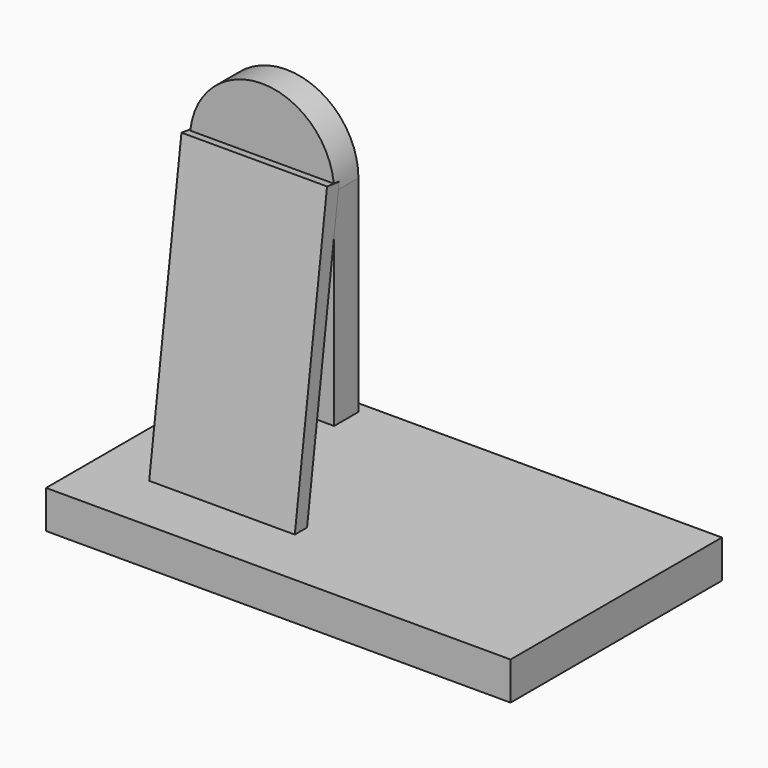
from build123d import *

# Parameters (mm, degrees)
F0_W      = 77.6358172297
F0_H      = 44.1598240286
F1_DEPTH  = 6.35
F2_W      = 24.0979678929
F2_H      = 34.4256665558
F3_DEPTH  = 5.08
F13_W     = 24.3353862315
F13_H     = 49.1384794004
F14_DEPTH = 2.54


with BuildPart() as f1:
    # F0 (on Top) → F1 (new body)
    with BuildSketch(Plane.XY):
        with Locations((5.2232034504, -1.1870926246)):
            Rectangle(F0_W, F0_H)
    extrude(amount=F1_DEPTH)


with BuildPart() as f3:
    # F2 (on Front) → F3 (new body)
    with BuildSketch(Plane.XZ):
        with BuildLine():
            ThreePointArc((0, 53.4191392362), (-12.0489839464, 65.4681231827), (-24.0979678929, 53.4191392362))
            Line((-24.0979678929, 53.4191392362), (0, 53.4191392362))
        make_face()
        with Locations((-12.0489839464, 36.2063059583)):
            Rectangle(F2_W, F2_H)
    extrude(amount=F3_DEPTH)


with BuildPart() as f14:
    # F13 (on 3pt) → F14 (new body)
    with BuildSketch(Plane(origin=(0, -13.9092554561, 1.9329184528), x_dir=(-1, 0, 0), z_dir=(0, 0.990481816, -0.1376436421))):
        with Locations((12.1676931158, 28.8499442395)):
            Rectangle(F13_W, F13_H)
    extrude(amount=F14_DEPTH)


solid = Compound([f1.part, f3.part, f14.part])
